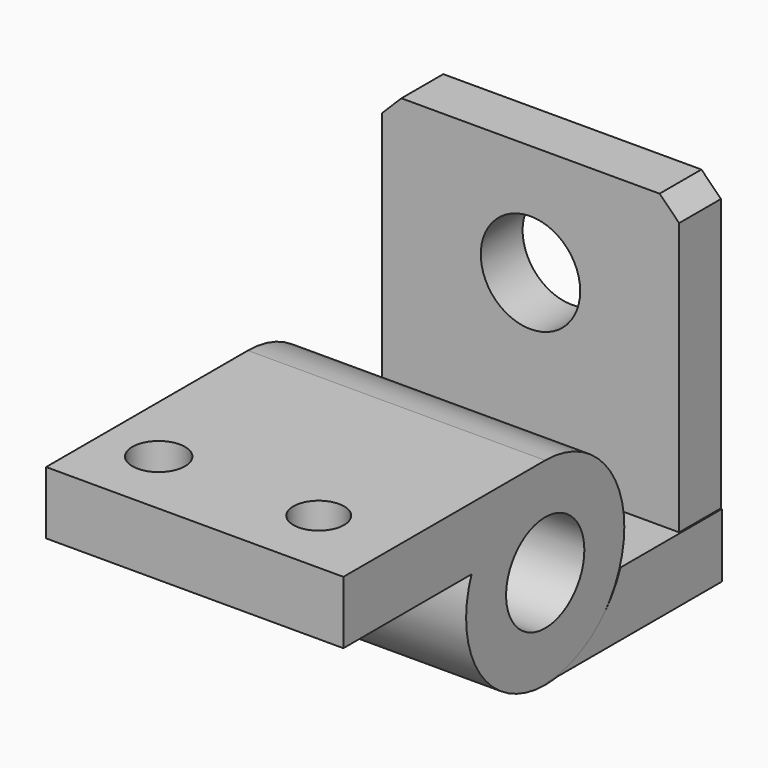
from build123d import *

# Parameters (mm, degrees)
F4_DEPTH  = 76
F3_W      = 13.3726410568
F3_H      = 74.5896287262
F5_SIZE   = 5
F0_R      = 12.5
F6_DEPTH  = 113
F7_R      = 12.7084300736
F8_DEPTH  = 25
F9_R      = 6.7325080712
F9_R_2    = 6.4850618684
F10_DEPTH = 25


with BuildPart() as f4:
    # F1 (on Right) → F4 (new body)
    with BuildSketch(Plane.YZ):
        with BuildLine():
            ThreePointArc((-23.5353756384, 9.210575372), (-14.2471987878, 20.8750073491), (0, 25.2734763165))
            Line((0, 25.2734763165), (-64.48584795, 25.2734763165))
            Line((-64.48584795, 25.2734763165), (-64.48584795, 9.210575372))
            Line((-64.48584795, 9.210575372), (-23.5353756384, 9.210575372))
        make_face()
        with BuildLine():
            ThreePointArc((-23.5353756384, 9.210575372), (-4.6865683781, -24.8351501296), (25.2734763165, 0))
            ThreePointArc((25.2734763165, 0), (17.8710464876, 17.8710464876), (0, 25.2734763165))
            ThreePointArc((0, 25.2734763165), (-14.2471987878, 20.8750073491), (-23.5353756384, 9.210575372))
        make_face()
    extrude(amount=F4_DEPTH)

    # F0 (on Right) → F6 (cut)
    with BuildSketch(Plane.YZ):
        Circle(F0_R)
    extrude(amount=F6_DEPTH, mode=Mode.SUBTRACT)

    # F9 (on face) → F10 (cut)
    with BuildSketch(Plane.XY.offset(25.2734763165)):
        with Locations((14.7232953459, -46.90887779)):
            Circle(F9_R)
        with Locations((55.63364923, -46.90887779)):
            Circle(F9_R_2)
    extrude(amount=-F10_DEPTH, mode=Mode.SUBTRACT)


with BuildPart() as f4b:
    # F2 (on Right) → F4, piece 2 (new body)
    with BuildSketch(Plane.YZ):
        with BuildLine():
            ThreePointArc((24.0707546473, -8.6196139455), (14.5476690251, -20.491704497), (0, -24.9639544636))
            Line((0, -24.9639544636), (56.4622692764, -24.9639544636))
            Line((56.4622692764, -24.9639544636), (56.4622692764, -8.6196139455))
            Line((56.4622692764, -8.6196139455), (24.0707546473, -8.6196139455))
        make_face()
    extrude(amount=F4_DEPTH)


with BuildPart() as f4c:
    # F3 (on Right) → F4, piece 3 (new body)
    with BuildSketch(Plane.YZ):
        with Locations((49.4787786156, 28.97237055)):
            Rectangle(F3_W, F3_H)
    extrude(amount=F4_DEPTH)

    # F5
    f5_edges = [f4c.edges().sort_by_distance(p)[0] for p in [
        (76, 49.478779, 66.267185),
        (0, 49.478779, 66.267185),
    ]]
    chamfer(f5_edges, length=F5_SIZE)

    # F7 (on face) → F8 (cut)
    with BuildSketch(Plane.XZ.offset(-42.7924580872)):
        with Locations((38, 37.7504602075)):
            Circle(F7_R)
    extrude(amount=-F8_DEPTH, mode=Mode.SUBTRACT)


solid = Compound([f4.part, f4b.part, f4c.part])
